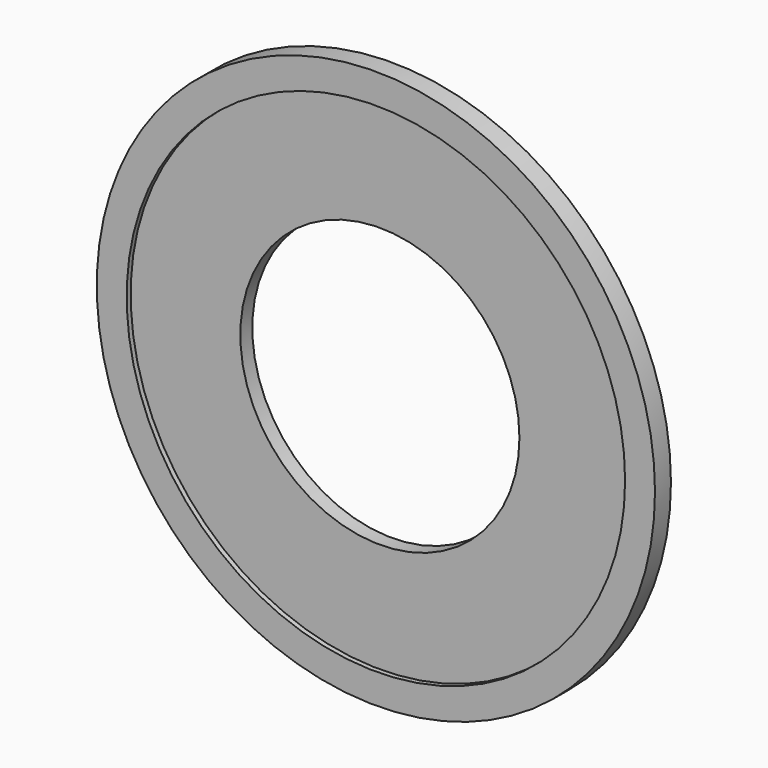
from build123d import *

# Parameters (mm, degrees)
F0_R     = 28
F0_R_2   = 25
F0_R_3   = 14
F1_DEPTH = 1.5
F2_DEPTH = 2


with BuildPart() as f1:
    # F0 (on Front) → F1 (new body)
    with BuildSketch(Plane.XZ):
        Circle(F0_R)
        Circle(F0_R_2, mode=Mode.SUBTRACT)
        Circle(F0_R_2)
        Circle(F0_R_3, mode=Mode.SUBTRACT)
    extrude(amount=F1_DEPTH)

    # F0 (on Front) → F2 (join)
    with BuildSketch(Plane.XZ):
        Circle(F0_R)
        Circle(F0_R_2, mode=Mode.SUBTRACT)
    extrude(amount=F2_DEPTH)


solid = f1.part
